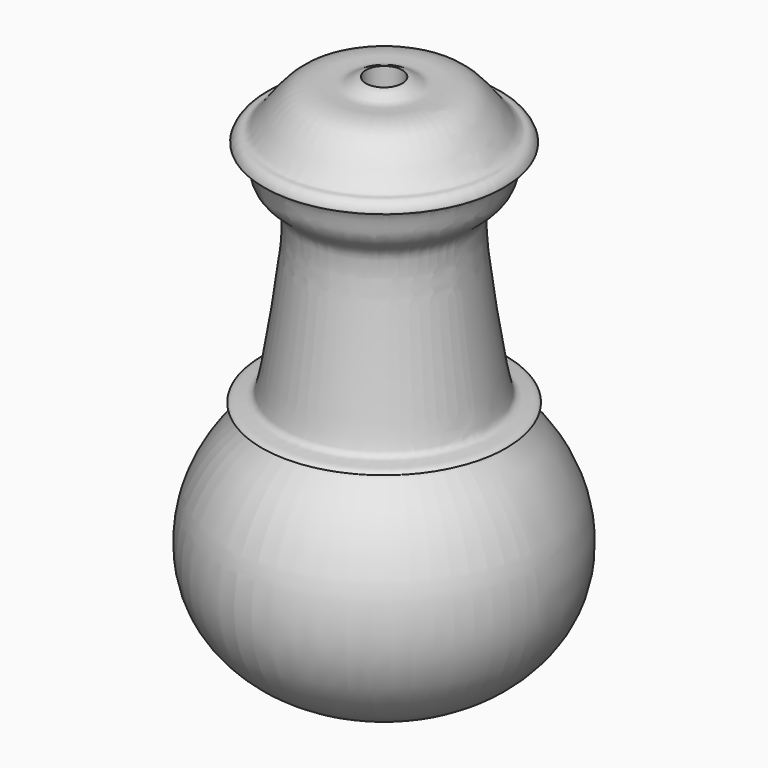
from build123d import *

# Parameters (mm, degrees)
F2_R     = 3.81
F3_DEPTH = 127
F4_W     = 29.2041804641
F4_H     = 13.5950483382
F4_W_2   = 25.3438577056
F4_H_2   = 9.9025666714
F5_DEPTH = 38.1
F6_W     = 1.8315780908
F6_H     = 9.9290758371
F6_W_2   = 1.8315776251
F6_W_3   = 2.5063696085
F6_W_4   = 1.9279760309
F6_W_5   = 2.4099699222
F6_W_6   = 1.1567864567
F7_DEPTH = 38.1


with BuildPart() as f1:
    # F0 (on Front) → F1 (revolve)
    with BuildSketch(Plane.XZ):
        with BuildLine():
            add(Edge.make_bspline(
                [(0, 30.6411255151), (0.9719052697, 30.8589780482), (3.1311016376, 31.3429618403), (-0.8428308747, 26.9597948778), (4.86434105, 27.7648030948), (6.9001885669, 24.7233546217), (16.460426925, 27.7183663846), (22.0171347211, 16.2026606782), (24.0530887741, 17.5764326079), (26.0885151032, 14.425107786), (22.4003197662, 15.2314608232), (22.4573234006, 7.8514374537), (18.5110088945, 5.4336335761), (16.7150685492, 2.9801571496), (16.7995644832, -2.8660543784), (18.2412542429, -14.8450009955), (20.5979834828, -29.4786081551), (21.6742757622, -32.3663439086), (24.8793274387, -32.0137445971), (26.4801532521, -33.3350242059), (20.4572124744, -33.7230289316), (27.8225608183, -38.8067935266), (35.1778327891, -51.3094541134), (34.7680447891, -68.2012406621), (24.306122673, -80.6030021349), (10.1213018413, -85.8093636164), (3.1466652634, -85.9393786185), (0, -85.9980359674)],
                knots=[0, 0, 0, 0, 0.0233749297, 0.0519300234, 0.0830210808, 0.1132031546, 0.1609999845, 0.2148691373, 0.2354244457, 0.2603718956, 0.2828275751, 0.3241467768, 0.3592540901, 0.3865421917, 0.424578208, 0.4848047735, 0.5488727426, 0.5745261705, 0.6031333827, 0.6190824346, 0.6484635363, 0.687351629, 0.752229681, 0.8187139495, 0.8839720231, 0.9476530138, 1, 1, 1, 1], degree=3))
            Line((0, 30.6411255151), (0, -85.9980359674))
        make_face()
    revolve(axis=Axis((0, 0, -27.6784552261), (0, 0, -1)))

    # F2 (on Top) → F3 (cut, symmetric)
    with BuildSketch(Plane.XY):
        Circle(F2_R)
    extrude(amount=F3_DEPTH, both=True, mode=Mode.SUBTRACT)

    # F4 (on Right) → F5 (cut)
    with BuildSketch(Plane.YZ):
        with Locations((0.153331086, -59.2638980597)):
            Rectangle(F4_W, F4_H)
        with Locations((0.0694114715, -59.2638999224)):
            Rectangle(F4_W_2, F4_H_2, mode=Mode.SUBTRACT)
    extrude(amount=-F5_DEPTH, mode=Mode.SUBTRACT)

    # F6 (on Right) → F7 (cut)
    with BuildSketch(Plane.YZ):
        with Locations((10.4015562683, -59.2178478837)):
            Rectangle(F6_W, F6_H)
        with Locations((5.29241818, -59.2178478837)):
            Rectangle(F6_W_2, F6_H)
        with Locations((0.520675967, -59.2178478837)):
            Rectangle(F6_W_3, F6_H)
        with Locations((-3.9136705454, -59.2178478837)):
            Rectangle(F6_W_4, F6_H)
        with Locations((-8.5890137125, -59.2178478837)):
            Rectangle(F6_W_5, F6_H)
        with Locations((-11.7219751701, -59.2178478837)):
            Rectangle(F6_W_6, F6_H)
    extrude(amount=-F7_DEPTH, mode=Mode.SUBTRACT)


solid = f1.part
